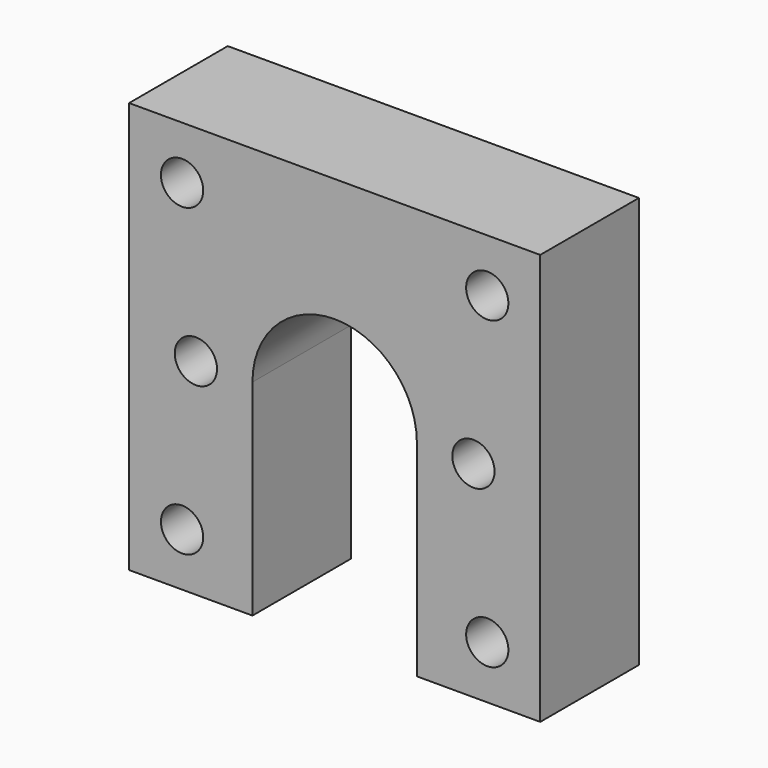
from build123d import *

# Parameters (mm, degrees)
F1_DEPTH = 19.05
F3_D     = 6.5278
F3_DEPTH = 6.35
F3_TIP   = 1.9611489744
F5_D     = 6.5278


with BuildPart() as f1:
    # F0 (on Front) → F1 (new body)
    with BuildSketch(Plane.XZ):
        with BuildLine():
            Line((31.75, 31.75), (-31.75, 31.75))
            Line((-31.75, 31.75), (-31.75, -31.75))
            Line((-31.75, -31.75), (-12.7, -31.75))
            Line((-12.7, -31.75), (-12.7, 0))
            ThreePointArc((-12.7, 0), (0, 12.7), (12.7, 0))
            Line((12.7, 0), (12.7, -31.75))
            Line((12.7, -31.75), (31.75, -31.75))
            Line((31.75, -31.75), (31.75, 31.75))
        make_face()
    extrude(amount=F1_DEPTH)

    # F3
    with Locations(Plane.XZ.offset(19.05)):
        with Locations((-23.57, 23.57), (-23.57, -23.57), (23.57, -23.57), (23.57, 23.57)):
            Hole(F3_D / 2, depth=F3_DEPTH)
            with Locations((0, 0, -(F3_DEPTH + F3_TIP / 2))):  # 118° drill point
                Cone(0, F3_D / 2, F3_TIP, mode=Mode.SUBTRACT)

    # F5 (through all)
    with Locations(Plane.XZ.offset(19.05)):
        with Locations((-21.43125, 0), (21.43125, 0)):
            Hole(F5_D / 2)


solid = f1.part
